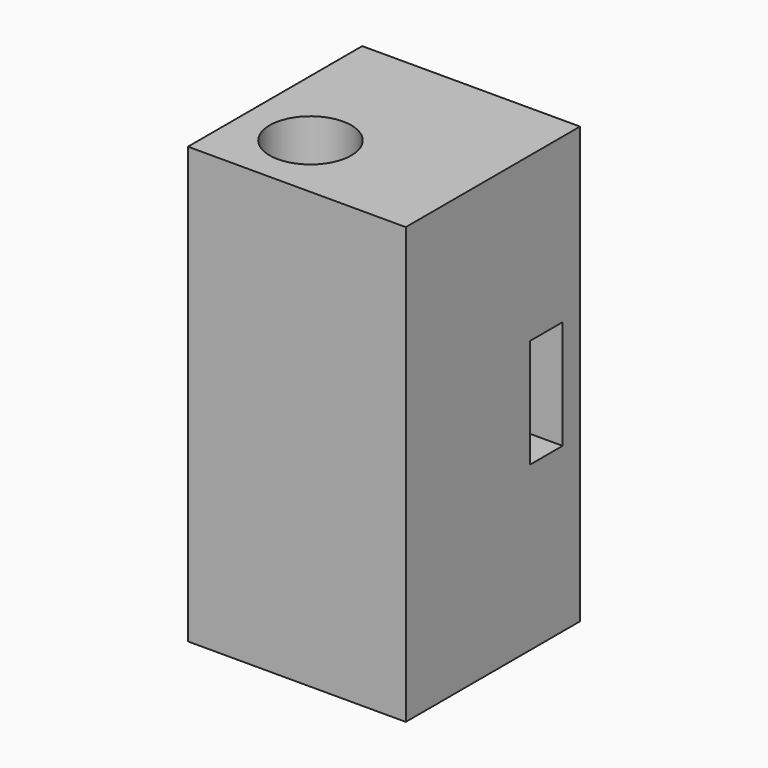
from build123d import *

# Parameters (mm, degrees)
F0_W     = 25.4
F0_H     = 25.4
F1_DEPTH = 50.8
F2_R     = 4.7625
F3_DEPTH = 38.1
F4_W     = 4.7625
F4_H     = 12.7
F5_DEPTH = 12.7


with BuildPart() as f1:
    # F0 (on Top) → F1 (new body)
    with BuildSketch(Plane.XY):
        with Locations((12.7, 12.7)):
            Rectangle(F0_W, F0_H)
    extrude(amount=F1_DEPTH)

    # F2 (on face) → F3 (cut)
    with BuildSketch(Plane.XY.offset(50.8)):
        with Locations((7.9375, 7.9375)):
            Circle(F2_R)
    extrude(amount=-F3_DEPTH, mode=Mode.SUBTRACT)

    # F4 (on face) → F5 (cut)
    with BuildSketch(Plane.YZ.offset(25.4)):
        with Locations((20.47875, 25.4)):
            Rectangle(F4_W, F4_H)
    extrude(amount=-F5_DEPTH, mode=Mode.SUBTRACT)


solid = f1.part
